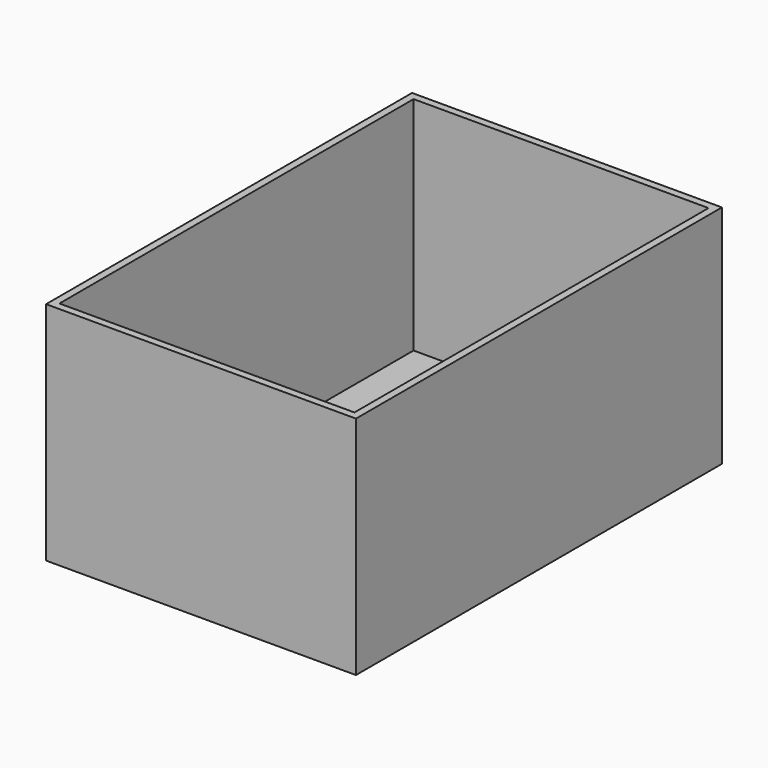
from build123d import *

# Parameters (mm, degrees)
F0_W     = 210
F0_H     = 310
F0_W_2   = 199.898
F0_H_2   = 299.974
F1_DEPTH = 153
F2_DEPTH = 3


with BuildPart() as f1:
    # F0 (on Top) → F1 (new body)
    with BuildSketch(Plane.XY):
        Rectangle(F0_W, F0_H)
        Rectangle(F0_W_2, F0_H_2, mode=Mode.SUBTRACT)
    extrude(amount=F1_DEPTH)


with BuildPart() as f2:
    # F0 (on Top) → F2 (new body)
    with BuildSketch(Plane.XY):
        Rectangle(F0_W_2, F0_H_2)
    extrude(amount=F2_DEPTH)


solid = Compound([f1.part, f2.part])
